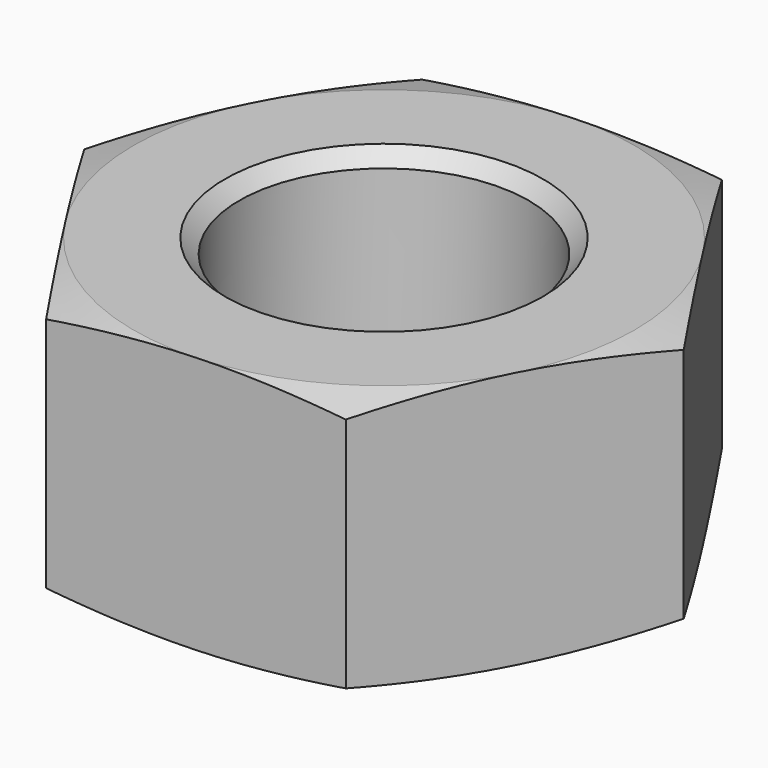
from build123d import *

# Parameters (mm, degrees)
F0_R     = 20.25
F1_DEPTH = 36
F2_SIZE  = 2


with BuildPart() as f1:
    # F0 (on Top) → F1 (new body)
    with BuildSketch(Plane.XY):
        Polygon((21.8537385337, -33.9962857594), (40.3685163688, 1.9277498582), (18.5147778351, 35.9240356175), (-21.8537385337, 33.9962857594), (-40.3685163688, -1.9277498582), (-18.5147778351, -35.9240356175), align=None)
        Circle(F0_R, mode=Mode.SUBTRACT)
    extrude(amount=F1_DEPTH)

    # F2
    f2_edges = [f1.edges().sort_by_distance(p)[0] for p in [
        (-20.25, 0, 36),
        (-20.25, 0, 0),
    ]]
    chamfer(f2_edges, length=F2_SIZE)

    # F5 (on 3pt) → F6 (revolve, cut)
    with BuildSketch(Plane(origin=(0, 0, 0), x_dir=(0.998861734, 0.0476994386, 0), z_dir=(0.0476994386, -0.998861734, 0))):
        Polygon((35, 37.1090732515), (35, 36), (44.6592582629, 33.411809549), (44.6592582629, 39.6752795403), align=None)
        Polygon((35, -1.1090732515), (44.6592582629, -3.6752795403), (44.6592582629, 2.588190451), (35, 0), align=None)
    revolve(axis=Axis((0, 0, 0), (0, 0, -1)), mode=Mode.SUBTRACT)


solid = f1.part
